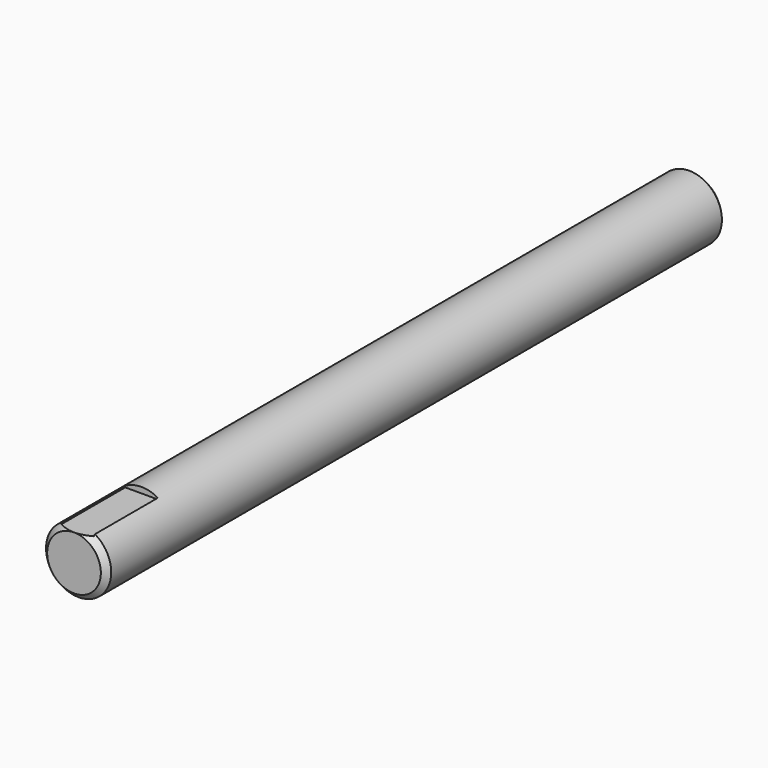
from build123d import *

# Parameters (mm, degrees)
F0_R          = 8.5
F1_DEPTH      = 101
F1_DEPTH_BACK = 101
F2_SIZE       = 1.5
F4_W          = 8.5
F4_H          = 22
F5_DEPTH      = 1.5


with BuildPart() as f1:
    # F0 (on Front) → F1 (new body, two sides)
    with BuildSketch(Plane.XZ) as f1_sk:
        Circle(F0_R)
    extrude(amount=F1_DEPTH)
    extrude(f1_sk.sketch, amount=-F1_DEPTH_BACK)

    # F2
    f2_edges = [f1.edges().sort_by_distance(p)[0] for p in [
        (-8.5, -101, 0),
        (-8.5, 101, 0),
    ]]
    chamfer(f2_edges, length=F2_SIZE)

    # F4 (on offset) → F5 (cut)
    with BuildSketch(Plane.XY.offset(8.5)):
        with Locations((0, -90)):
            Rectangle(F4_W, F4_H)
    extrude(amount=-F5_DEPTH, mode=Mode.SUBTRACT)


solid = f1.part
